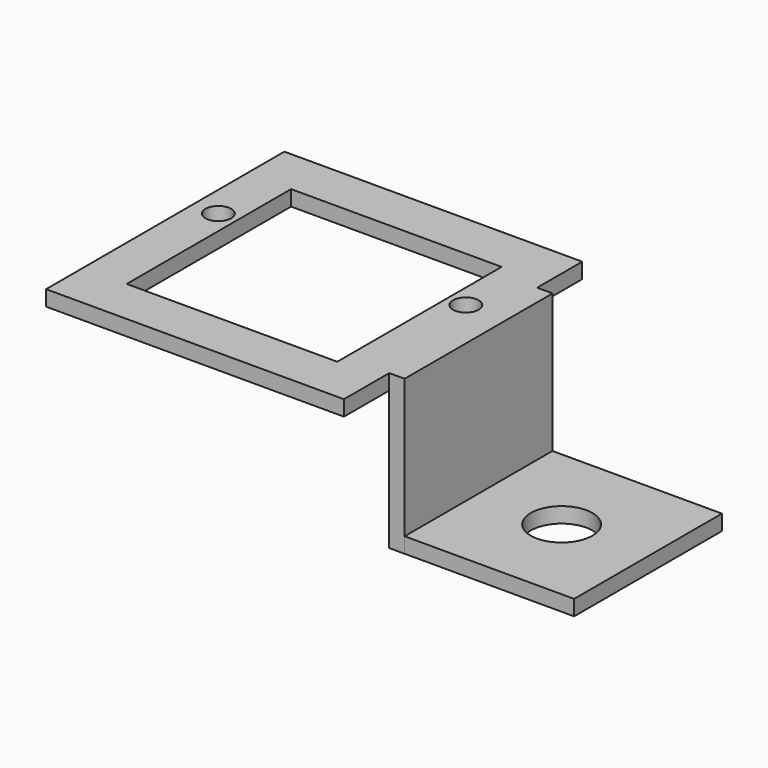
from build123d import *

# Parameters (mm, degrees)
F0_W     = 58
F0_H     = 58
F0_R     = 2.5
F0_W_2   = 41
F0_H_2   = 40
F1_DEPTH = 3
F2_W     = 36
F2_H     = 27
F2_H_2   = 3
F3_DEPTH = 3
F4_W     = 33
F4_H     = 35.972737
F4_R     = 6
F5_DEPTH = 3


with BuildPart() as f1:
    # F0 (on Top) → F1 (new body)
    with BuildSketch(Plane.XY):
        Rectangle(F0_W, F0_H)
        with Locations((-24.1, 6.807183)):
            Circle(F0_R, mode=Mode.SUBTRACT)
        Rectangle(F0_W_2, F0_H_2, mode=Mode.SUBTRACT)
        with Locations((24.1, 6.807183)):
            Circle(F0_R, mode=Mode.SUBTRACT)
    extrude(amount=F1_DEPTH)

    # F2 (on face) → F3 (join)
    with BuildSketch(Plane.YZ.offset(29)):
        with Locations((0.023433, -13.5)):
            Rectangle(F2_W, F2_H)
        with Locations((0.023433, 1.5)):
            Rectangle(F2_W, F2_H_2)
    extrude(amount=F3_DEPTH)

    # F4 (on face) → F5 (join)
    with BuildSketch(Plane(origin=(0, 0, -27), x_dir=(1, 0, 0), z_dir=(0, 0, -1))):
        with Locations((48.5, -0.009802)):
            Rectangle(F4_W, F4_H)
        with Locations((48.182182, 0)):
            Circle(F4_R, mode=Mode.SUBTRACT)
    extrude(amount=-F5_DEPTH)


solid = f1.part
